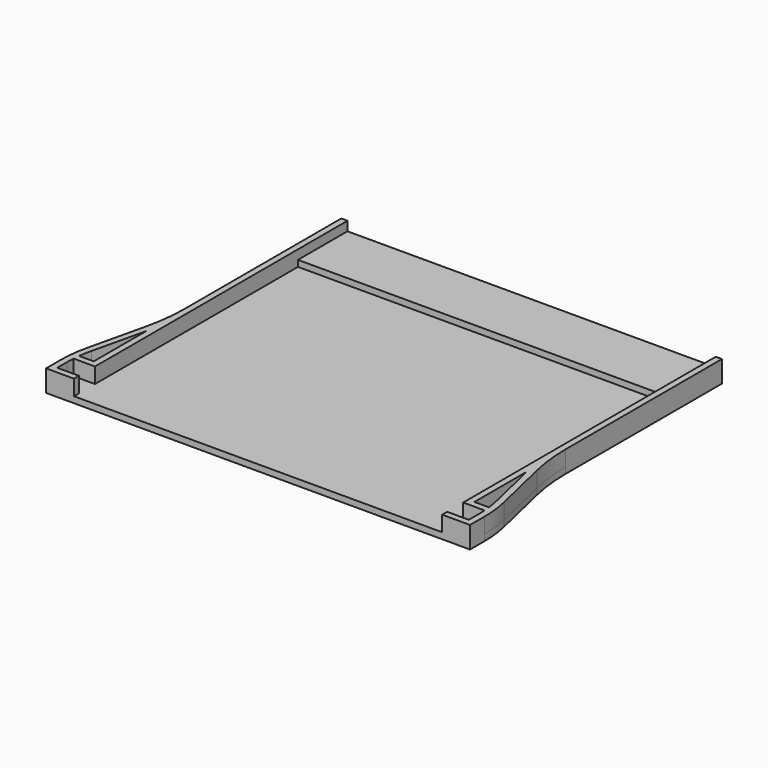
from build123d import *

# Parameters (mm, degrees)
F1_DEPTH = 2
F2_R     = 40
F3_R     = 60
F5_DEPTH = 5
F6_W     = 119
F6_H     = 20
F7_DEPTH = 2


with BuildPart() as f1:
    # F0 (on Top) → F1 (new body)
    with BuildSketch(Plane.XY):
        Polygon((0, 10.5), (0, 0), (68.5, 0), (137, 0), (137, 10.5), (130, 40.5), (130, 110.5), (68.5, 110.5), (7, 110.5), (7, 40.5), align=None)
    extrude(amount=F1_DEPTH)

    # F2
    f2_edges = [f1.edges().sort_by_distance(p)[0] for p in [
        (137, 10.5, 1),
        (0, 10.5, 1),
    ]]
    fillet(f2_edges, radius=F2_R)

    # F3
    f3_edges = [f1.edges().sort_by_distance(p)[0] for p in [
        (7, 40.5, 1),
        (130, 40.5, 1),
    ]]
    fillet(f3_edges, radius=F3_R)

    # F4 (on face) → F5 (join)
    with BuildSketch(Plane.XY.offset(2)):
        with BuildLine():
            Line((130, 110.5), (128, 110.5))
            Line((128, 110.5), (128, 47.40723087))
            Line((128, 47.40723087), (128, 8.5))
            Line((128, 8.5), (134.9106173749, 8.5))
            ThreePointArc((134.9106173749, 8.5), (134.9776477697, 7.1983562602), (135, 5.89517942))
            Line((135, 5.89517942), (135, 2))
            Line((135, 2), (128, 2))
            Line((128, 2), (128, 0))
            Line((128, 0), (137, 0))
            Line((137, 0), (137, 5.89517942))
            ThreePointArc((137, 5.89517942), (136.7375511046, 10.4697867481), (135.9536483897, 14.9843640443))
            Line((135.9536483897, 14.9843640443), (131.5695274155, 33.7734539336))
            ThreePointArc((131.5695274155, 33.7734539336), (130.393673343, 40.5453198778), (130, 47.40723087))
            Line((130, 47.40723087), (130, 110.5))
        make_face()
        with BuildLine():
            Line((134.7199632479, 10.5), (130, 10.5))
            Line((130, 10.5), (130, 31.6983303996))
            Line((130, 31.6983303996), (134.0059659702, 14.5299048131))
            ThreePointArc((134.0059659702, 14.5299048131), (134.4172574834, 12.5245717316), (134.7199632479, 10.5))
        make_face(mode=Mode.SUBTRACT)
        with BuildLine():
            Line((9, 8.5), (9, 47.40723087))
            Line((9, 47.40723087), (9, 110.5))
            Line((9, 110.5), (7, 110.5))
            Line((7, 110.5), (7, 47.40723087))
            ThreePointArc((7, 47.40723087), (6.606326657, 40.5453198778), (5.4304725845, 33.7734539336))
            Line((5.4304725845, 33.7734539336), (1.0463516103, 14.9843640443))
            ThreePointArc((1.0463516103, 14.9843640443), (0.2624488954, 10.4697867481), (0, 5.89517942))
            Line((0, 5.89517942), (0, 0))
            Line((0, 0), (9, 0))
            Line((9, 0), (9, 2))
            Line((9, 2), (2, 2))
            Line((2, 2), (2, 5.89517942))
            ThreePointArc((2, 5.89517942), (2.0223522303, 7.1983562602), (2.0893826251, 8.5))
            Line((2.0893826251, 8.5), (9, 8.5))
        make_face()
        with BuildLine():
            ThreePointArc((2.2800367521, 10.5), (2.5827425166, 12.5245717316), (2.9940340298, 14.5299048131))
            Line((2.9940340298, 14.5299048131), (7, 31.6983303996))
            Line((7, 31.6983303996), (7, 10.5))
            Line((7, 10.5), (2.2800367521, 10.5))
        make_face(mode=Mode.SUBTRACT)
    extrude(amount=F5_DEPTH)

    # F6 (on face) → F7 (join)
    with BuildSketch(Plane.XY.offset(2)):
        with Locations((68.5, 100.5)):
            Rectangle(F6_W, F6_H)
    extrude(amount=F7_DEPTH)


solid = f1.part
